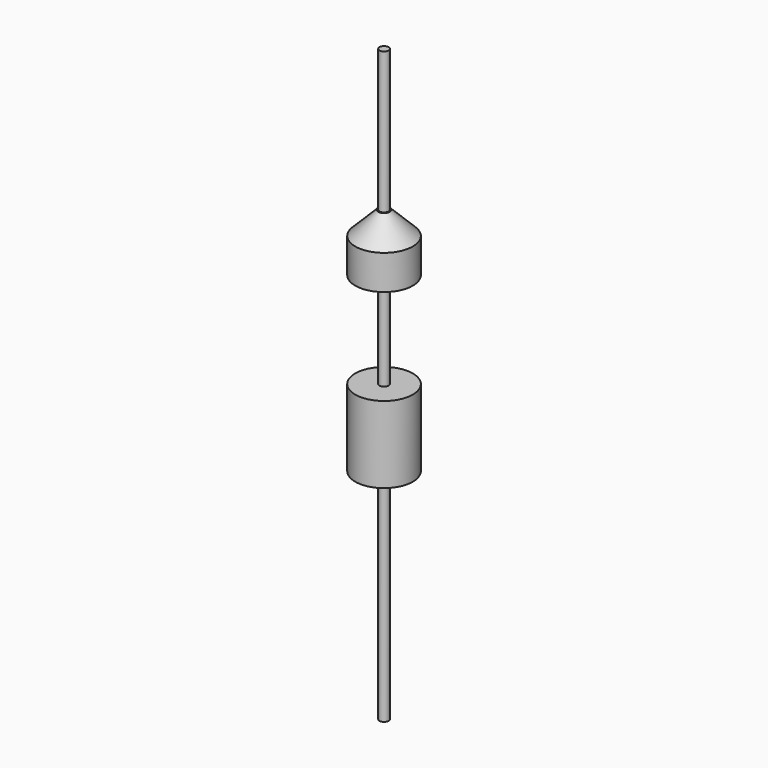
from build123d import *

# Parameters (mm, degrees)
F0_R     = 7.5
F1_DEPTH = 20
F2_R     = 1.190625
F3_DEPTH = 76.94342
F5_R     = 7.5
F6_DEPTH = 15
F7_SIZE  = 6


with BuildPart() as f1:
    # F0 (on Top) → F1 (new body)
    with BuildSketch(Plane.XY):
        Circle(F0_R)
    extrude(amount=-F1_DEPTH)

    # F2 (on Top) → F3 (join, symmetric)
    with BuildSketch(Plane.XY):
        Circle(F2_R)
    extrude(amount=F3_DEPTH, both=True)

    # F5 (on offset) → F6 (join)
    with BuildSketch(Plane.XY.offset(25)):
        Circle(F5_R)
    extrude(amount=F6_DEPTH)

    # F7
    f7_edges = [f1.edges().sort_by_distance(p)[0] for p in [
        (-7.5, 0, 40),
    ]]
    chamfer(f7_edges, length=F7_SIZE)


solid = f1.part
